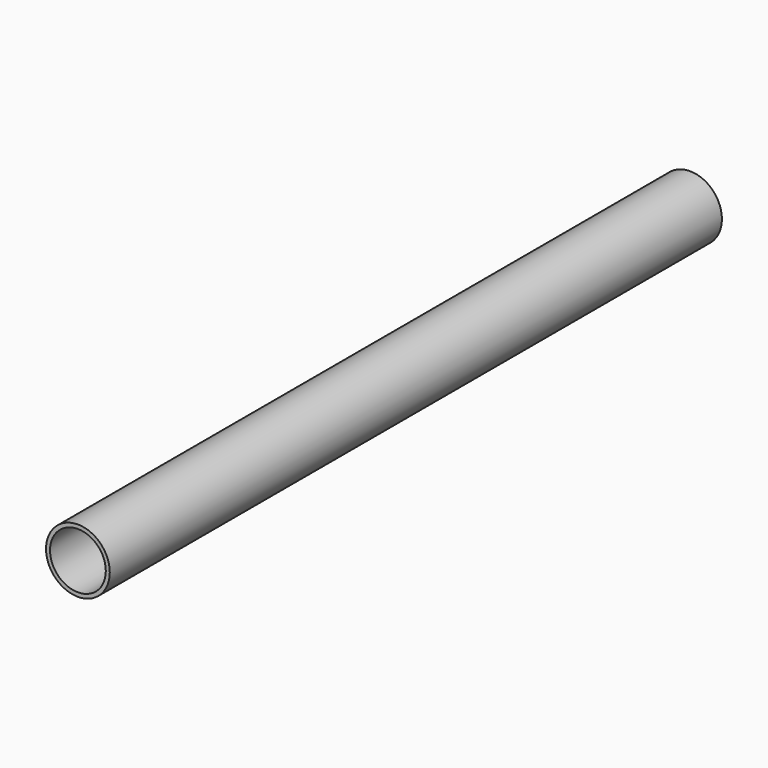
from build123d import *

# Parameters (mm, degrees)
F0_R     = 12.7
F0_R_2   = 11.1125
F1_DEPTH = 304.8
F3_D     = 3.175
F3_DEPTH = 12.701


with BuildPart() as f1:
    # F0 (on Front) → F1 (new body)
    with BuildSketch(Plane.XZ):
        Circle(F0_R)
        Circle(F0_R_2, mode=Mode.SUBTRACT)
    extrude(amount=F1_DEPTH)

    # F3 (through all, one way)
    with BuildSketch(Plane.XY):
        with Locations((0, -279.4), (0, -25.4)):
            Circle(F3_D / 2)
    extrude(amount=-F3_DEPTH, mode=Mode.SUBTRACT)


solid = f1.part
